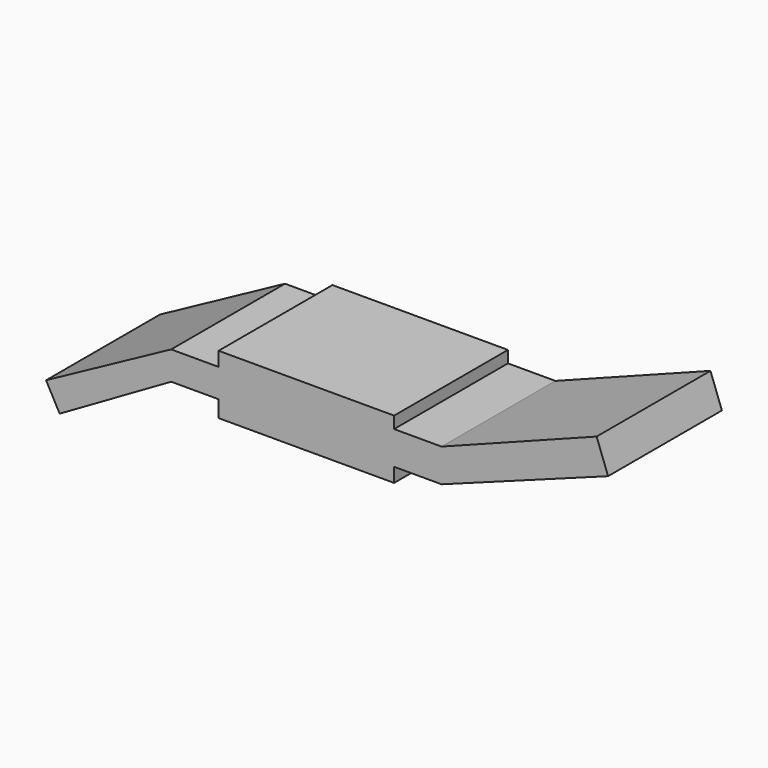
from build123d import *

# Parameters (mm, degrees)
F1_DEPTH = 30


with BuildPart() as f1:
    # F0 (on Front) → F1 (new body, symmetric)
    with BuildSketch(Plane.XZ):
        Polygon((37, 7.5), (37, 12.5), (-37, 12.5), (-37, 6.5), (-37, -5.5), (-37, -12.5), (37, -12.5), (37, -6.5), align=None)
        Polygon((57, 7.5), (37, 7.5), (37, -6.5), (57, -6.5), (127.224185, 19.350369), (122.387884, 32.488489), align=None)
        Polygon((-37, -5.5), (-37, 6.5), (-57, 6.5), (-109.744672, -22.100693), (-104.024533, -32.649627), (-57, -5.5), align=None)
    extrude(amount=F1_DEPTH, both=True)


solid = f1.part
